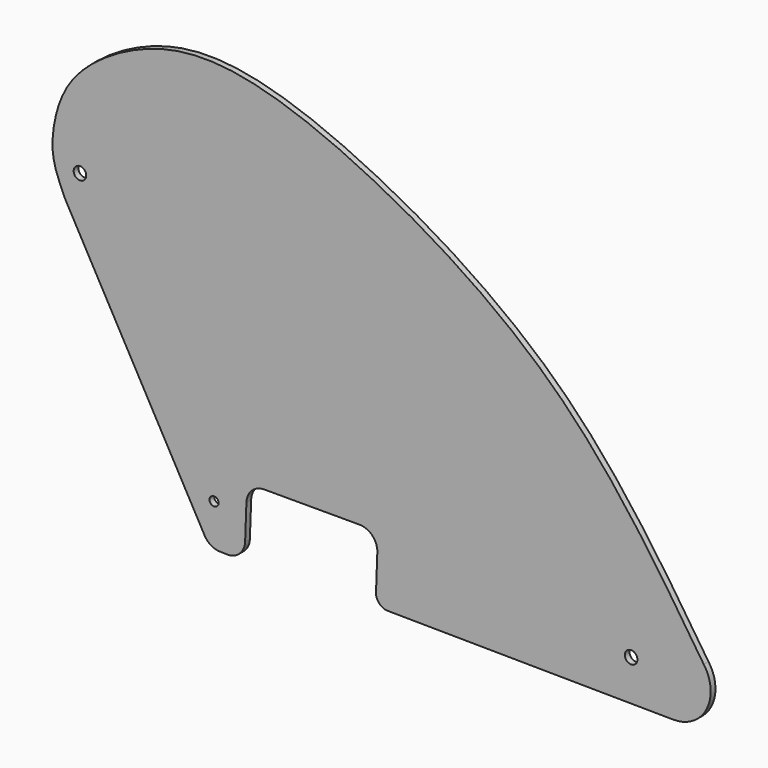
from build123d import *

# Parameters (mm, degrees)
F0_R     = 2.413
F0_R_2   = 3.3655
F1_DEPTH = 3.175
F2_DEPTH = 3.175


with BuildPart() as f1:
    # F0 (on Front) → F1 (new body)
    with BuildSketch(Plane.XZ):
        with BuildLine():
            ThreePointArc((-12.1173483823, -120.8719793102), (-8.7712006458, -124.3639667878), (-4.1414111173, -125.7624410061))
            Line((-4.1414111173, -125.7624410061), (-0.3340817641, -125.9020698541))
            ThreePointArc((-0.3340817641, -125.9020698541), (6.4988294476, -123.3609746093), (9.5336016215, -116.7325510771))
            Line((9.5336016215, -116.7325510771), (10.2199763887, -98.0168283901))
            ThreePointArc((10.2199763887, -98.0168283901), (13.2547485626, -91.3884048578), (20.0876597743, -88.8473096131))
            Line((20.0876597743, -88.8473096131), (70.6723240059, -88.8473096131))
            ThreePointArc((70.6723240059, -88.8473096131), (77.5298247878, -91.7616887628), (80.1909250872, -98.7213919174))
            Line((80.1909250872, -98.7213919174), (79.486918323, -117.9178950481))
            ThreePointArc((79.486918323, -117.9178950481), (81.2386781492, -122.5344392077), (85.7682007663, -124.5002894885))
            Line((85.7682007663, -124.5002894885), (238.4297628047, -126.0498627876))
            ThreePointArc((238.4297628047, -126.0498627876), (256.1782449572, -115.3810255441), (254.6634338987, -94.7282278086))
            add(Edge.make_bspline(
                [(254.6634338987, -94.7282278086), (230.5004247724, -57.9131461563), (182.8226658329, 14.729320601), (76.1449452503, 80.6129367186), (1.1831030413, 107.3132441268), (-46.1183098942, 100.6174791728), (-85.3085401209, 74.4019023074), (-93.4932714436, 46.4155171866), (-93.8988751742, 29.3267825468), (-89.2857642099, 18.9705236347), (-86.9701359549, 13.7719606094)],
                knots=[0, 0, 0, 0, 0.1970765277, 0.3888657216, 0.539567707, 0.6555526493, 0.7702835112, 0.8602532289, 0.9298508428, 1, 1, 1, 1], degree=3))
            Line((-86.9701359549, 13.7719606094), (-12.1173483823, -120.8719793102))
        make_face()
        with Locations((-7.074563764, -103.1521037221)):
            Circle(F0_R, mode=Mode.SUBTRACT)
        with Locations((215.8565099837, -104.0315380095)):
            Circle(F0_R_2, mode=Mode.SUBTRACT)
        with Locations((-78.7537678534, 27.9110781685)):
            Circle(F0_R_2, mode=Mode.SUBTRACT)
    extrude(amount=F1_DEPTH)

    # F0 (on Front) → F2 (join)
    with BuildSketch(Plane.XZ):
        with BuildLine():
            ThreePointArc((-12.1173483823, -120.8719793102), (-8.7712006458, -124.3639667878), (-4.1414111173, -125.7624410061))
            Line((-4.1414111173, -125.7624410061), (-0.3340817641, -125.9020698541))
            ThreePointArc((-0.3340817641, -125.9020698541), (6.4988294476, -123.3609746093), (9.5336016215, -116.7325510771))
            Line((9.5336016215, -116.7325510771), (10.2199763887, -98.0168283901))
            ThreePointArc((10.2199763887, -98.0168283901), (13.2547485626, -91.3884048578), (20.0876597743, -88.8473096131))
            Line((20.0876597743, -88.8473096131), (70.6723240059, -88.8473096131))
            ThreePointArc((70.6723240059, -88.8473096131), (77.5298247878, -91.7616887628), (80.1909250872, -98.7213919174))
            Line((80.1909250872, -98.7213919174), (79.486918323, -117.9178950481))
            ThreePointArc((79.486918323, -117.9178950481), (81.2386781492, -122.5344392077), (85.7682007663, -124.5002894885))
            Line((85.7682007663, -124.5002894885), (238.4297628047, -126.0498627876))
            ThreePointArc((238.4297628047, -126.0498627876), (256.1782449572, -115.3810255441), (254.6634338987, -94.7282278086))
            add(Edge.make_bspline(
                [(254.6634338987, -94.7282278086), (230.5004247724, -57.9131461563), (182.8226658329, 14.729320601), (76.1449452503, 80.6129367186), (1.1831030413, 107.3132441268), (-46.1183098942, 100.6174791728), (-85.3085401209, 74.4019023074), (-93.4932714436, 46.4155171866), (-93.8988751742, 29.3267825468), (-89.2857642099, 18.9705236347), (-86.9701359549, 13.7719606094)],
                knots=[0, 0, 0, 0, 0.1970765277, 0.3888657216, 0.539567707, 0.6555526493, 0.7702835112, 0.8602532289, 0.9298508428, 1, 1, 1, 1], degree=3))
            Line((-86.9701359549, 13.7719606094), (-12.1173483823, -120.8719793102))
        make_face()
        with Locations((-7.074563764, -103.1521037221)):
            Circle(F0_R, mode=Mode.SUBTRACT)
        with Locations((215.8565099837, -104.0315380095)):
            Circle(F0_R_2, mode=Mode.SUBTRACT)
        with Locations((-78.7537678534, 27.9110781685)):
            Circle(F0_R_2, mode=Mode.SUBTRACT)
    extrude(amount=F2_DEPTH)


solid = f1.part
